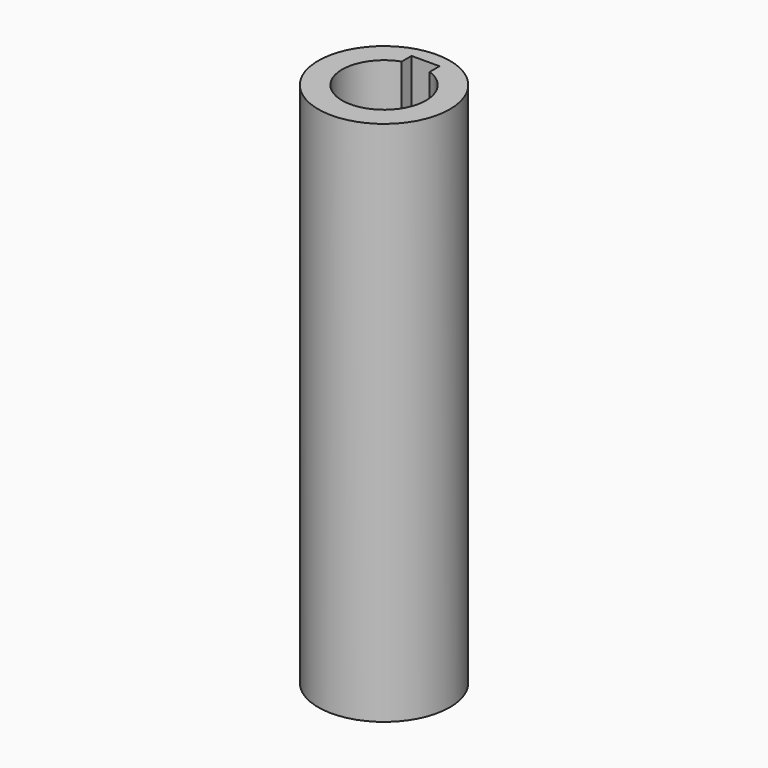
from build123d import *

# Parameters (mm, degrees)
F0_R     = 20
F1_DEPTH = 160
F3_DEPTH = 50


with BuildPart() as f1:
    # F0 (on Top) → F1 (new body)
    with BuildSketch(Plane.XY):
        Circle(F0_R)
    extrude(amount=F1_DEPTH)

    # F2 (on face) → F3 (cut)
    with BuildSketch(Plane.XY.offset(160)):
        with BuildLine():
            ThreePointArc((-4.25, 12.0208152802), (-7.3612159322, -10.4103314068), (12.75, 0))
            ThreePointArc((12.75, 0), (10.4103314068, 7.3612159322), (4.25, 12.0208152802))
            Line((4.25, 12.0208152802), (4.25, 9.75))
            Line((4.25, 9.75), (-4.25, 9.75))
            Line((-4.25, 9.75), (-4.25, 12.0208152802))
        make_face()
        with BuildLine():
            Line((4.25, 9.75), (4.25, 12.0208152802))
            ThreePointArc((4.25, 12.0208152802), (0, 12.75), (-4.25, 12.0208152802))
            Line((-4.25, 12.0208152802), (-4.25, 9.75))
            Line((-4.25, 9.75), (4.25, 9.75))
        make_face()
        with BuildLine():
            ThreePointArc((-4.25, 12.0208152802), (0, 12.75), (4.25, 12.0208152802))
            Line((4.25, 12.0208152802), (4.25, 15.75))
            Line((4.25, 15.75), (-4.25, 15.75))
            Line((-4.25, 15.75), (-4.25, 12.0208152802))
        make_face()
    extrude(amount=-F3_DEPTH, mode=Mode.SUBTRACT)


solid = f1.part
